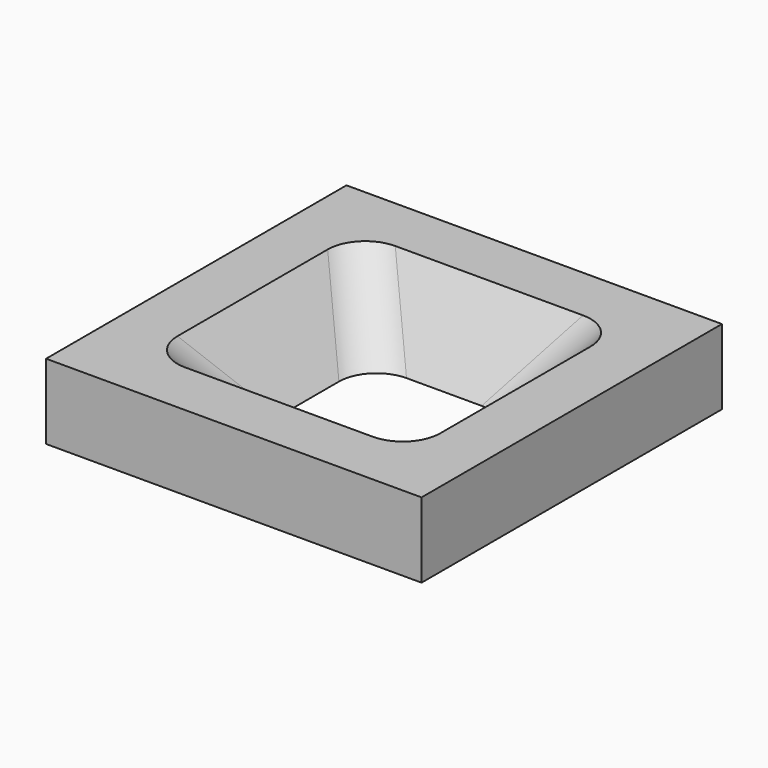
from build123d import *

# Parameters (mm, degrees)
BOX_W     = 50
BOX_H     = 50
BOX_DEPTH = 10


with BuildPart() as loft_body:
    # Sketch (on Face5 of Box) → Loft section 0
    with BuildSketch(Plane.XY):
        with BuildLine():
            Line((-5, 10), (5, 10))
            ThreePointArc((10, 5), (8.535534, 8.535534), (5, 10))
            Line((10, 5), (10, -5))
            ThreePointArc((5, -10), (8.535534, -8.535534), (10, -5))
            Line((5, -10), (-5, -10))
            ThreePointArc((-10, -5), (-8.535534, -8.535534), (-5, -10))
            Line((-10, -5), (-10, 5))
            ThreePointArc((-5, 10), (-8.535534, 8.535534), (-10, 5))
        make_face()
    # Sketch001 (on Face5 of Box) → Loft section 1
    with BuildSketch(Plane.XY.offset(10)):
        with BuildLine():
            Line((-12.5, 17.5), (12.5, 17.5))
            ThreePointArc((17.5, 12.5), (16.035534, 16.035534), (12.5, 17.5))
            Line((17.5, 12.5), (17.5, -12.5))
            ThreePointArc((12.5, -17.5), (16.035534, -16.035534), (17.5, -12.5))
            Line((12.5, -17.5), (-12.5, -17.5))
            ThreePointArc((-17.5, -12.5), (-16.035534, -16.035534), (-12.5, -17.5))
            Line((-17.5, -12.5), (-17.5, 12.5))
            ThreePointArc((-12.5, 17.5), (-16.035534, 16.035534), (-17.5, 12.5))
        make_face()
    loft()


with BuildPart() as cut:
    # Box → Box (new body)
    with BuildSketch(Plane(origin=(-25, -25, 0), x_dir=(1, 0, 0), z_dir=(0, 0, 1))):
        with Locations((25, 25)):
            Rectangle(BOX_W, BOX_H)
    extrude(amount=BOX_DEPTH)

    # Cut: cut Loft body
    add(loft_body.part, mode=Mode.SUBTRACT)


solid = cut.part
